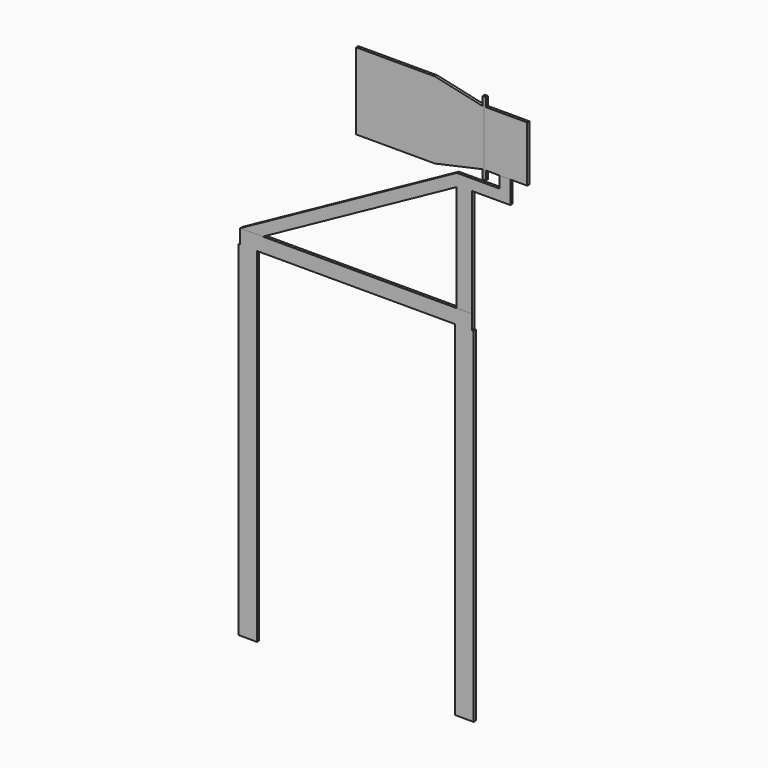
from build123d import *

# Parameters (mm, degrees)
F0_W     = 140
F0_H     = 133
F1_DEPTH = 25
F0_W_2   = 100
F0_H_2   = 106.324512
F2_DEPTH = 25
F0_W_3   = 720
F0_H_3   = 700
F3_DEPTH = 25
F4_DEPTH = 25


with BuildPart() as f1:
    # F0 (on Front) → F1 (new body)
    with BuildSketch(Plane.XZ):
        Polygon((-168.3, 0), (0, 0), (0, 3142.5), (-14.15, 3142.5), (-154.15, 3142.5), (-168.3, 3142.5), align=None)
        Polygon((-1977.7, 0), (-1977.7, 3142.5), (-1991.85, 3142.5), (-2131.85, 3142.5), (-2146, 3142.5), (-2146, 0), align=None)
        with Locations((-2061.85, 3209)):
            Rectangle(F0_W, F0_H)
        Polygon((-1977.7, 3142.5), (-168.3, 3142.5), (-154.15, 3142.5), (-154.15, 3275.5), (-1924.337425, 3275.5), (-1991.85, 3275.5), (-1991.85, 3142.5), align=None)
        with Locations((-84.15, 3209)):
            Rectangle(F0_W, F0_H)
    extrude(amount=F1_DEPTH)


with BuildPart() as f2:
    # F0 (on Front) → F2 (new body)
    with BuildSketch(Plane.XZ):
        Polygon((-154.15, 3275.5), (-14.15, 3275.5), (-14.15, 4263.175488), (-154.15, 4263.175488), (-154.15, 4249.049816), align=None)
        Polygon((-1991.85, 3275.5), (-1924.337425, 3275.5), (-154.15, 4249.049816), (-154.15, 4263.175488), (-154.15, 4363.175488), (-2131.85, 3275.5), align=None)
        Polygon((-154.15, 4263.175488), (-14.15, 4263.175488), (336.598253, 4263.175488), (336.598253, 4363.175488), (236.598253, 4363.175488), (-154.15, 4363.175488), align=None)
        with Locations((286.598253, 4416.337744)):
            Rectangle(F0_W_2, F0_H_2)
    extrude(amount=F2_DEPTH)


with BuildPart() as f3:
    # F0 (on Front) → F3 (new body)
    with BuildSketch(Plane.XZ):
        with Locations((-713, 4723.5)):
            Rectangle(F0_W_3, F0_H_3)
        Polygon((-353, 4373.5), (82, 4469.5), (82, 4977.5), (-353, 5073.5), align=None)
        Polygon((82, 4388.5), (97, 4388.5), (97, 5058.5), (82, 5058.5), (82, 4977.5), (82, 4469.5), align=None)
    extrude(amount=F3_DEPTH)


with BuildPart() as f4:
    # F0 (on Front) → F4 (new body)
    with BuildSketch(Plane.XZ):
        Polygon((112, 4388.5), (112, 4469.5), (112, 4977.5), (112, 5058.5), (97, 5058.5), (97, 4388.5), align=None)
        Polygon((236.598253, 4469.5), (336.598253, 4469.5), (489.53629, 4469.5), (489.53629, 4977.5), (112, 4977.5), (112, 4469.5), align=None)
    extrude(amount=F4_DEPTH)


solid = Compound([f1.part, f2.part, f3.part, f4.part])
